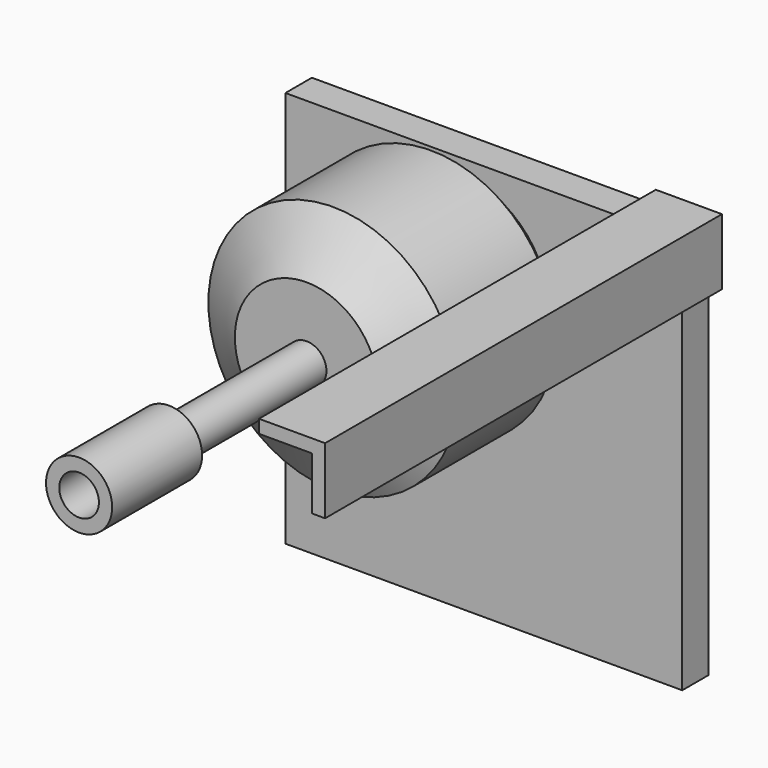
from build123d import *

# Parameters (mm, degrees)
F0_R      = 18.85
F1_DEPTH  = 28.5
F2_SIZE2  = 5
F2_SIZE   = 8
F3_SIZE   = 5
F4_R      = 3
F5_DEPTH  = 26
F6_R      = 5
F7_DEPTH  = 17
F8_R      = 3
F9_DEPTH  = 17
F10_R     = 1.5
F11_DEPTH = 5
F12_W     = 60
F12_H     = 60
F13_DEPTH = 5
F14_R     = 1.5
F15_DEPTH = 5
F17_DEPTH = 75


with BuildPart() as f1:
    # F0 (on Front) → F1 (new body)
    with BuildSketch(Plane.XZ):
        Circle(F0_R)
    extrude(amount=F1_DEPTH)

    # F2
    f2_edges = [f1.edges().sort_by_distance(p)[0] for p in [
        (-18.85, -28.5, 0),
    ]]
    f2_side = f1.faces().sort_by_distance((0, -28.5, 0))[0]
    chamfer(f2_edges, length=F2_SIZE, length2=F2_SIZE2, reference=f2_side)

    # F3
    f3_edges = [f1.edges().sort_by_distance(p)[0] for p in [
        (-18.85, 0, 0),
    ]]
    chamfer(f3_edges, length=F3_SIZE)

    # F4 (on face) → F5 (join)
    with BuildSketch(Plane.XZ.offset(28.5)):
        Circle(F4_R)
    extrude(amount=F5_DEPTH)

    # F10 (on face) → F11 (cut)
    with BuildSketch(Plane(origin=(0, 0, 0), x_dir=(-1, 0, 0), z_dir=(0, 1, 0))):
        with Locations((0, 8)):
            Circle(F10_R)
        with Locations((0, 12.5)):
            Circle(F10_R)
        with Locations((0, -8)):
            Circle(F10_R)
        with Locations((0, -12.5)):
            Circle(F10_R)
        with Locations((-8, 0)):
            Circle(F10_R)
        with Locations((8, 0)):
            Circle(F10_R)
    extrude(amount=-F11_DEPTH, mode=Mode.SUBTRACT)


with BuildPart() as f7:
    # F6 (on face) → F7 (new body)
    with BuildSketch(Plane.XZ.offset(54.5)):
        Circle(F6_R)
    extrude(amount=F7_DEPTH)

    # F8 (on face) → F9 (cut, through all)
    with BuildSketch(Plane.XZ.offset(71.5)):
        Circle(F8_R)
    extrude(amount=-F9_DEPTH, mode=Mode.SUBTRACT)


with BuildPart() as f13:
    # F12 (on Front) → F13 (new body)
    with BuildSketch(Plane.XZ):
        with Locations((4, -14)):
            Rectangle(F12_W, F12_H)
    extrude(amount=-F13_DEPTH)

    # F14 (on face) → F15 (cut, through all)
    with BuildSketch(Plane(origin=(0, 5, 0), x_dir=(-1, 0, 0), z_dir=(0, 1, 0))):
        with Locations((-8, 0)):
            Circle(F14_R)
        with Locations((0, 8)):
            Circle(F14_R)
        with Locations((0, 12.5)):
            Circle(F14_R)
        with Locations((0, -8)):
            Circle(F14_R)
        with Locations((0, -12.5)):
            Circle(F14_R)
        with Locations((8, 0)):
            Circle(F14_R)
    extrude(amount=-F15_DEPTH, mode=Mode.SUBTRACT)


with BuildPart() as f17:
    # F16 (on face) → F17 (new body)
    with BuildSketch(Plane(origin=(0, 5, 0), x_dir=(-1, 0, 0), z_dir=(0, 1, 0))):
        Polygon((-34, 8), (-34, 16), (-26, 16), (-26, 18), (-36, 18), (-36, 8), align=None)
    extrude(amount=-F17_DEPTH)


solid = Compound([f1.part, f7.part, f13.part, f17.part])
